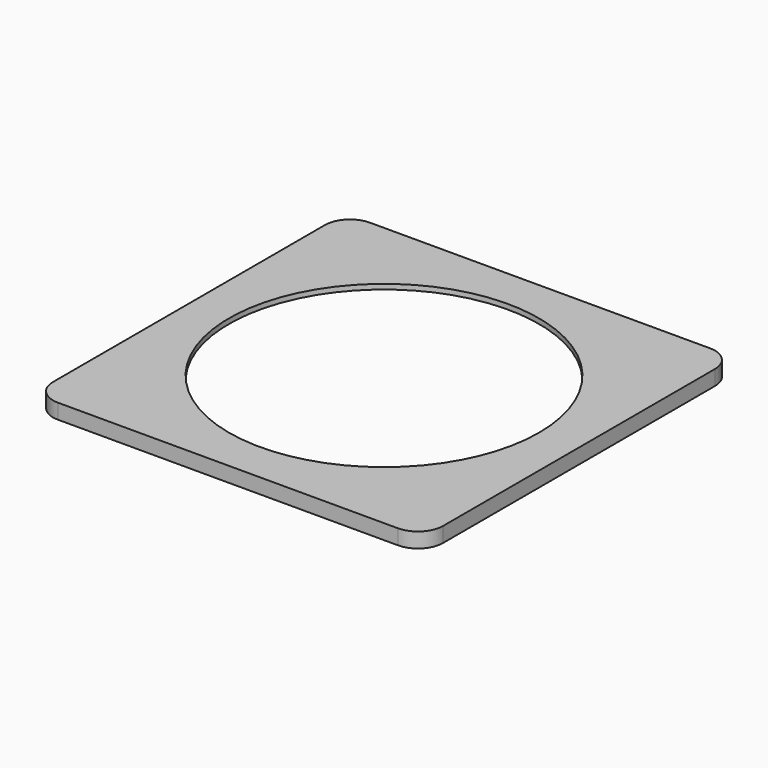
from build123d import *

# Parameters (mm, degrees)
EXTRUDE047_DEPTH = 3
SKETCH018_R      = 31
EXTRUDE046_DEPTH = 3


with BuildPart() as extrude047:
    # Sketch019 → Extrude047 (new body)
    with BuildSketch(Plane.XY.offset(80)):
        with BuildLine():
            Line((-33, 38), (33, 38))
            ThreePointArc((38, 33), (36.535534, 36.535534), (33, 38))
            Line((38, 33), (38, -33))
            ThreePointArc((33, -38), (36.535534, -36.535534), (38, -33))
            Line((33, -38), (-33, -38))
            ThreePointArc((-38, -33), (-36.535534, -36.535534), (-33, -38))
            Line((-38, -33), (-38, 33))
            ThreePointArc((-33, 38), (-36.535534, 36.535534), (-38, 33))
        make_face()
    extrude(amount=EXTRUDE047_DEPTH)


with BuildPart() as extrude047_1:
    # Extrude047 placement: moved
    add(extrude047.part.moved(Location((0, -3.5, 30))))


with BuildPart() as grill:
    # Sketch018 → Extrude046 (new body)
    with BuildSketch(Plane.XY.offset(80)):
        with BuildLine():
            Line((-34, 39), (34, 39))
            ThreePointArc((39, 34), (37.535534, 37.535534), (34, 39))
            Line((39, 34), (39, -34))
            ThreePointArc((34, -39), (37.535534, -37.535534), (39, -34))
            Line((34, -39), (-34, -39))
            ThreePointArc((-39, -34), (-37.535534, -37.535534), (-34, -39))
            Line((-39, -34), (-39, 34))
            ThreePointArc((-34, 39), (-37.535534, 37.535534), (-39, 34))
        make_face()
        Circle(SKETCH018_R, mode=Mode.SUBTRACT)
    extrude(amount=EXTRUDE046_DEPTH)


with BuildPart() as grill_1:
    # Extrude046 placement: moved
    add(grill.part.moved(Location((0, -3.5, 31))))

    # Cut022: cut Extrude047
    add(extrude047_1.part, mode=Mode.SUBTRACT)


with BuildPart() as grill_2:
    # Cut022 placement: moved
    add(grill_1.part.moved(Location((0, 0, -39))))


solid = grill_2.part
